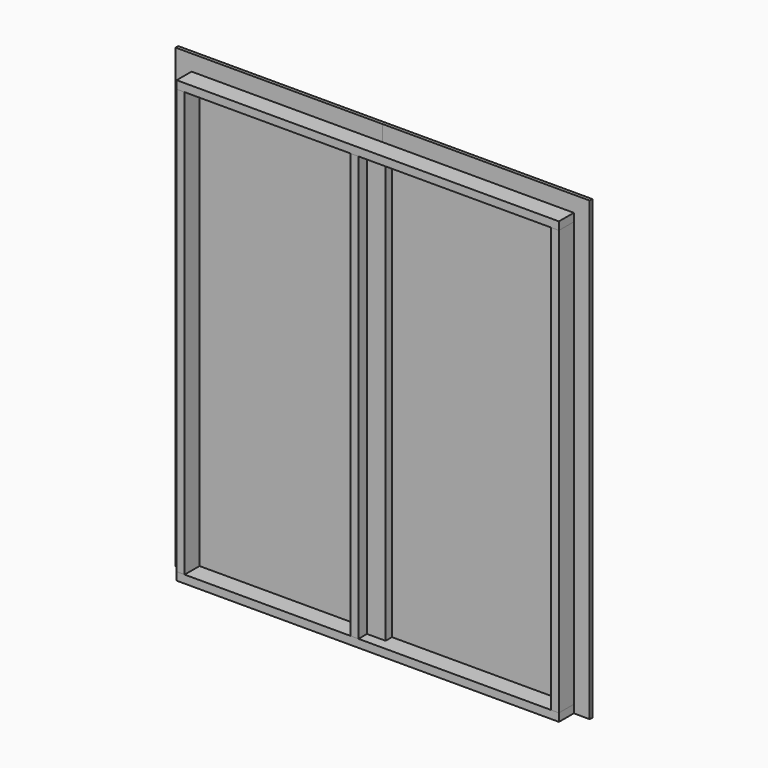
from build123d import *

# Parameters (mm, degrees)
F0_W     = 990.6
F0_H     = 2184.4
F1_DEPTH = 15.875
F2_DEPTH = 15.875
F4_DEPTH = 88.9
F3_W     = 38.1
F3_H     = 2032
F5_DEPTH = 88.9
F3_W_2   = 44.45
F6_DEPTH = 38.1


with BuildPart() as f1:
    # F0 (on Front) → F1 (new body)
    with BuildSketch(Plane.XZ):
        with Locations((495.3, 1092.2)):
            Rectangle(F0_W, F0_H)
    extrude(amount=F1_DEPTH)


with BuildPart() as f2:
    # F0 (on Front) → F2 (new body)
    with BuildSketch(Plane.XZ):
        with Locations((1485.9, 1092.2)):
            Rectangle(F0_W, F0_H)
    extrude(amount=F2_DEPTH)


with BuildPart() as f4:
    # F3 (on face) → F4 (new body)
    with BuildSketch(Plane.XZ.offset(15.875)):
        Polygon((990.6, 2108.2), (990.6, 2070.1), (1035.05, 2070.1), (1866.9, 2070.1), (1905, 2070.1), (1905, 2108.2), align=None)
        Polygon((76.2, 2108.2), (76.2, 2070.1), (114.3, 2070.1), (908.05, 2070.1), (946.15, 2070.1), (990.6, 2070.1), (990.6, 2108.2), align=None)
        Polygon((990.6, 38.1), (990.6, 0), (1905, 0), (1905, 38.1), (1866.9, 38.1), (1035.05, 38.1), align=None)
        Polygon((76.2, 38.1), (76.2, 0), (990.6, 0), (990.6, 38.1), (946.15, 38.1), (908.05, 38.1), (114.3, 38.1), align=None)
    extrude(amount=F4_DEPTH)


with BuildPart() as f5:
    # F3 (on face) → F5 (new body)
    with BuildSketch(Plane.XZ.offset(15.875)):
        with Locations((95.25, 1054.1)):
            Rectangle(F3_W, F3_H)
        with Locations((1885.95, 1054.1)):
            Rectangle(F3_W, F3_H)
        with Locations((927.1, 1054.1)):
            Rectangle(F3_W, F3_H)
    extrude(amount=F5_DEPTH)


with BuildPart() as f6:
    # F3 (on face) → F6 (new body)
    with BuildSketch(Plane.XZ.offset(15.875)):
        with Locations((968.375, 1054.1)):
            Rectangle(F3_W_2, F3_H)
        with Locations((1012.825, 1054.1)):
            Rectangle(F3_W_2, F3_H)
    extrude(amount=F6_DEPTH)


solid = Compound([f1.part, f2.part, f4.part, f5.part, f6.part])
